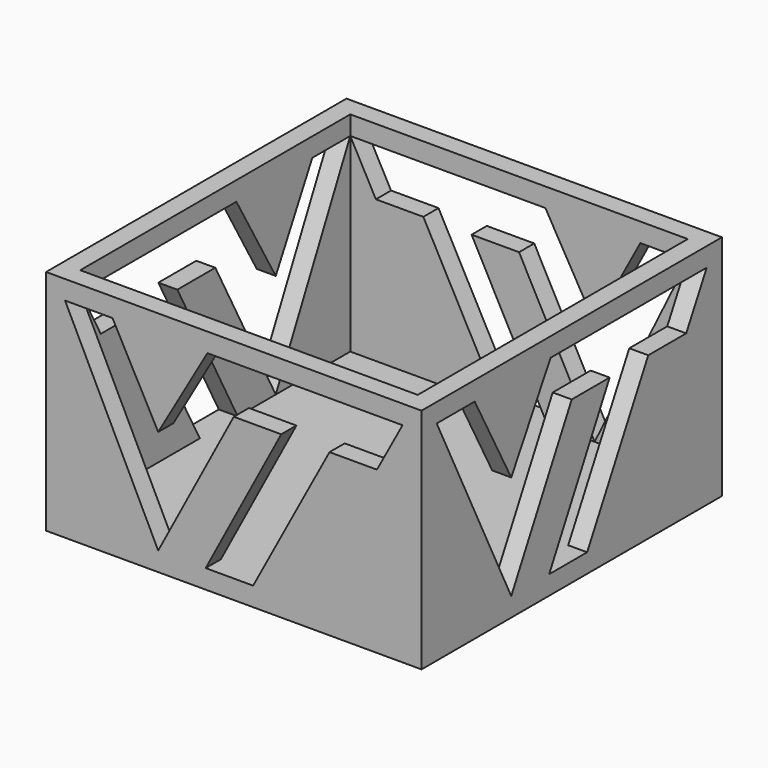
from build123d import *

# Parameters (mm, degrees)
F1_W      = 50.238024
F1_H      = 30.48
F2_DEPTH  = 50.2412
F4_T      = -2.54
F7_DEPTH  = 2.54
F8_DEPTH  = 2.54
F9_DEPTH  = 2.54
F10_DEPTH = 2.54


with BuildPart() as f2:
    # F1 (on Front) → F2 (new body)
    with BuildSketch(Plane.XZ):
        with Locations((7.288118, 12.7)):
            Rectangle(F1_W, F1_H)
    extrude(amount=-F2_DEPTH)

    # F4
    f4_openings = [f2.faces().sort_by_distance(p)[0] for p in [
        (7.288118, 25.1206, 27.94),
    ]]
    offset(amount=F4_T, openings=f4_openings)

    # F0 (on Front) → F7 (cut)
    with BuildSketch(Plane.XZ):
        Polygon((-8.940894, 25.4), (-15.290894, 25.4), (-2.829347, 0), (7.282625, 19.05), (13.632625, 19.05), (3.520653, 0), (9.870653, 0), (20.089414, 19.05), (26.439414, 19.05), (29.86713, 25.4), (3.759106, 25.4), (-2.829347, 13.97), align=None)
    extrude(amount=-F7_DEPTH, mode=Mode.SUBTRACT)

    # F6 (on face) → F8 (cut)
    with BuildSketch(Plane(origin=(-17.830894, 0, 0), x_dir=(0, -1, 0), z_dir=(-1, 0, 0))):
        Polygon((-41.3512, 25.4), (-47.7012, 25.4), (-35.239653, 0), (-25.127682, 19.05), (-18.777682, 19.05), (-28.889653, 0), (-22.539653, 0), (-12.320892, 19.05), (-5.970892, 19.05), (-2.543176, 25.4), (-28.6512, 25.4), (-35.239653, 13.97), align=None)
    extrude(amount=-F8_DEPTH, mode=Mode.SUBTRACT)

    # F5 (on face) → F9 (cut)
    with BuildSketch(Plane(origin=(0, 50.2412, 0), x_dir=(-1, 0, 0), z_dir=(0, 1, 0))):
        Polygon((-23.51713, 25.4), (-29.86713, 25.4), (-17.405583, 0), (-7.293612, 19.05), (-0.943612, 19.05), (-11.055583, 0), (-4.705583, 0), (5.513178, 19.05), (11.863178, 19.05), (15.290894, 25.4), (-10.81713, 25.4), (-17.405583, 13.97), align=None)
    extrude(amount=-F9_DEPTH, mode=Mode.SUBTRACT)

    # F3 (on face) → F10 (cut)
    with BuildSketch(Plane.YZ.offset(32.40713)):
        Polygon((8.89, 25.4), (2.54, 25.4), (15.001547, 0), (25.113518, 19.05), (31.463518, 19.05), (21.351547, 0), (27.701547, 0), (37.920308, 19.05), (44.270308, 19.05), (47.698024, 25.4), (21.59, 25.4), (15.001547, 13.97), align=None)
    extrude(amount=-F10_DEPTH, mode=Mode.SUBTRACT)


solid = f2.part
